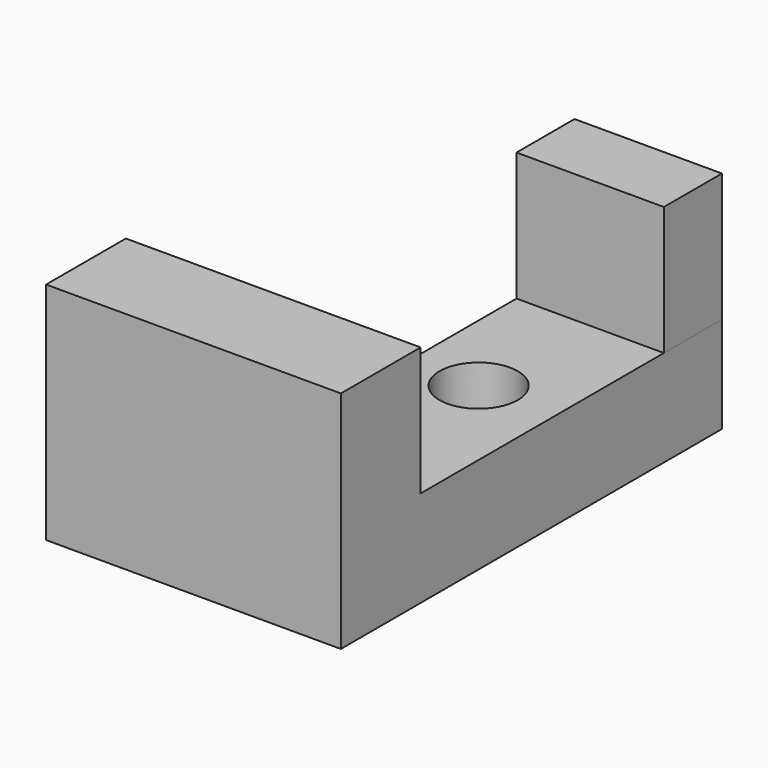
from build123d import *

# Parameters (mm, degrees)
F0_R     = 6.657461
F0_R_2   = 6.091135
F1_DEPTH = 15
F2_W     = 22.931527
F2_H     = 11.286382
F2_W_2   = 45.863054
F2_H_2   = 15.506358
F3_DEPTH = 20


with BuildPart() as f1:
    # F0 (on Top) → F1 (new body)
    with BuildSketch(Plane.XY):
        Polygon((-22.931527, -20.828636), (22.931527, -20.828636), (22.931527, -10.414318), (22.931527, 20.828636), (22.931527, 53.273242), (0, 53.273242), (0, 20.828636), (-22.931527, 20.828636), (-22.931527, -10.414318), align=None)
        with Locations((-8.311427, 8.812116)):
            Circle(F0_R, mode=Mode.SUBTRACT)
        with Locations((10.714731, 21.229185)):
            Circle(F0_R_2, mode=Mode.SUBTRACT)
    extrude(amount=F1_DEPTH)

    # F2 (on face) → F3 (join)
    with BuildSketch(Plane.XY.offset(15)):
        with Locations((11.465763, 47.630051)):
            Rectangle(F2_W, F2_H)
        with Locations((0, -13.075457)):
            Rectangle(F2_W_2, F2_H_2)
    extrude(amount=F3_DEPTH)


solid = f1.part
